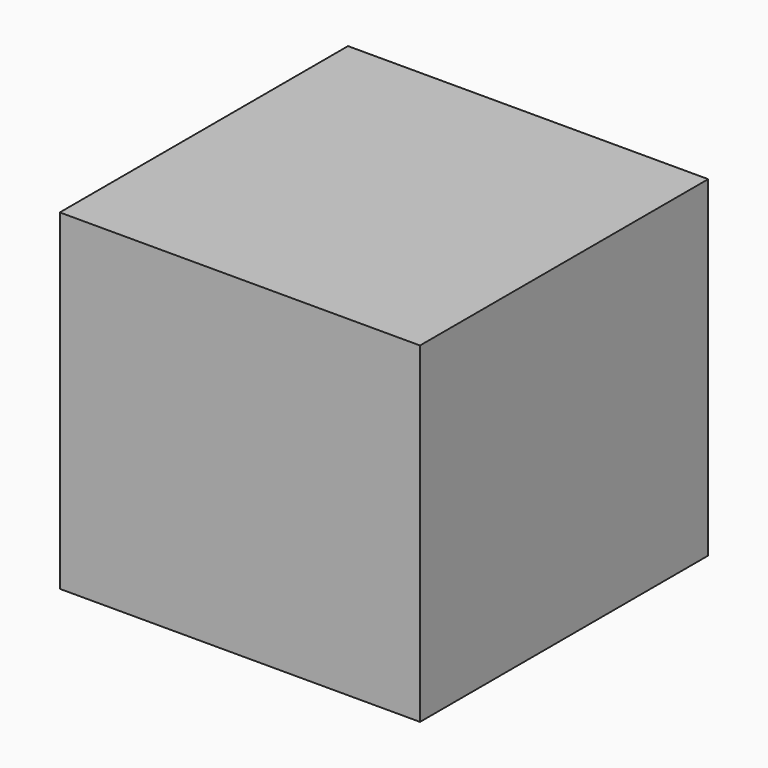
from build123d import *

# Parameters (mm, degrees)
BOX007_W     = 300
BOX007_H     = 300
BOX007_DEPTH = 10
BOX006_W     = 200
BOX006_H     = 200
BOX006_DEPTH = 300
BOX005_W     = 400
BOX005_H     = 400
BOX005_DEPTH = 300
BOX009_W     = 400
BOX009_H     = 400
BOX009_DEPTH = 410
BOX008_W     = 500
BOX008_H     = 500
BOX008_DEPTH = 460
BOX002_W     = 400
BOX002_H     = 400
BOX002_DEPTH = 100


with BuildPart() as cube006:
    # Box007 → Box007 (new body)
    with BuildSketch(Plane(origin=(50, 50, -20), x_dir=(1, 0, 0), z_dir=(0, 0, 1))):
        with Locations((150, 150)):
            Rectangle(BOX007_W, BOX007_H)
    extrude(amount=BOX007_DEPTH)


with BuildPart() as cube005:
    # Box006 → Box006 (new body)
    with BuildSketch(Plane(origin=(100, 100, -310), x_dir=(1, 0, 0), z_dir=(0, 0, 1))):
        with Locations((100, 100)):
            Rectangle(BOX006_W, BOX006_H)
    extrude(amount=BOX006_DEPTH)


with BuildPart() as cut003:
    # Box005 → Box005 (new body)
    with BuildSketch(Plane.XY.offset(-310)):
        with Locations((200, 200)):
            Rectangle(BOX005_W, BOX005_H)
    extrude(amount=BOX005_DEPTH)

    # Cut002: cut Cube005
    add(cube005.part, mode=Mode.SUBTRACT)

    # Cut003: cut Cube006
    add(cube006.part, mode=Mode.SUBTRACT)


with BuildPart() as cube008:
    # Box009 → Box009 (new body)
    with BuildSketch(Plane.XY.offset(-310)):
        with Locations((200, 200)):
            Rectangle(BOX009_W, BOX009_H)
    extrude(amount=BOX009_DEPTH)


with BuildPart() as cut004:
    # Box008 → Box008 (new body)
    with BuildSketch(Plane(origin=(-50, -50, -310), x_dir=(1, 0, 0), z_dir=(0, 0, 1))):
        with Locations((250, 250)):
            Rectangle(BOX008_W, BOX008_H)
    extrude(amount=BOX008_DEPTH)

    # Cut004: cut Cube008
    add(cube008.part, mode=Mode.SUBTRACT)


with BuildPart() as obj1:
    # Box002 → Box002 (new body)
    with BuildSketch(Plane.XY):
        with Locations((200, 200)):
            Rectangle(BOX002_W, BOX002_H)
    extrude(amount=BOX002_DEPTH)

    # Fusion001: union Cut003, Cut004
    add(cut003.part)
    add(cut004.part)


solid = obj1.part
